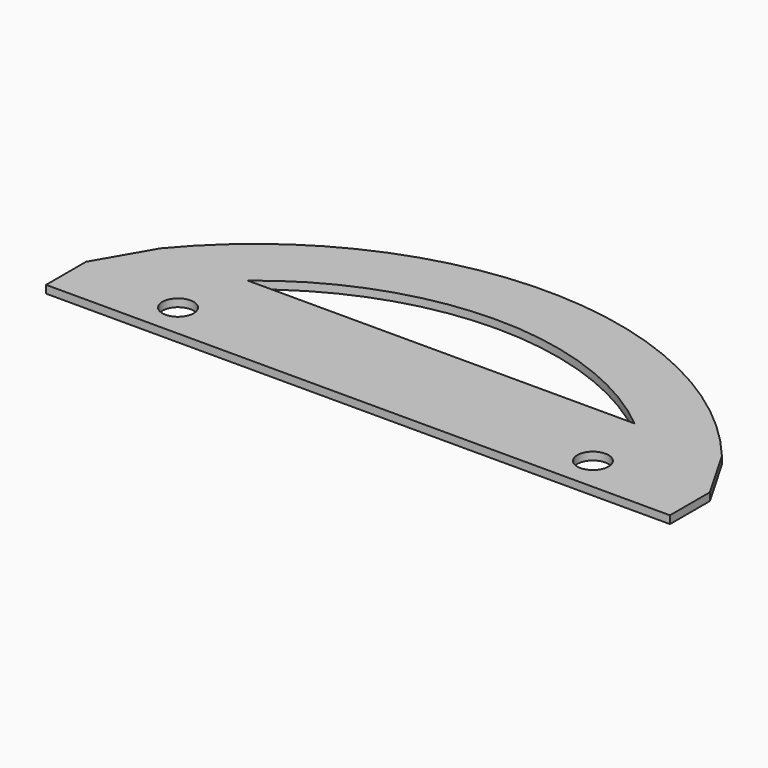
from build123d import *

# Parameters (mm, degrees)
F0_R     = 5
F1_DEPTH = 2.5


with BuildPart() as f1:
    # F0 (on Top) → F1 (new body)
    with BuildSketch(Plane.XY):
        with BuildLine():
            Line((-97.139122, -17.320508), (-97.139122, -33.320508))
            Line((-97.139122, -33.320508), (-63.639122, -33.320508))
            Line((-63.639122, -33.320508), (69.360878, -33.320508))
            Line((69.360878, -33.320508), (102.860878, -33.320508))
            Line((102.860878, -33.320508), (102.860878, -17.320508))
            Line((102.860878, -17.320508), (92.860878, 0))
            ThreePointArc((92.860878, 0), (2.860878, 42.320195), (-87.139122, 0))
            Line((-87.139122, 0), (-97.139122, -17.320508))
        make_face()
        with Locations((-63.639122, -22.320508)):
            Circle(F0_R, mode=Mode.SUBTRACT)
        with Locations((69.360878, -22.320508)):
            Circle(F0_R, mode=Mode.SUBTRACT)
        with BuildLine():
            ThreePointArc((-59.139122, 0), (2.860878, 22.360343), (64.860878, 0))
            Line((64.860878, 0), (-59.139122, 0))
        make_face(mode=Mode.SUBTRACT)
    extrude(amount=F1_DEPTH)


solid = f1.part
